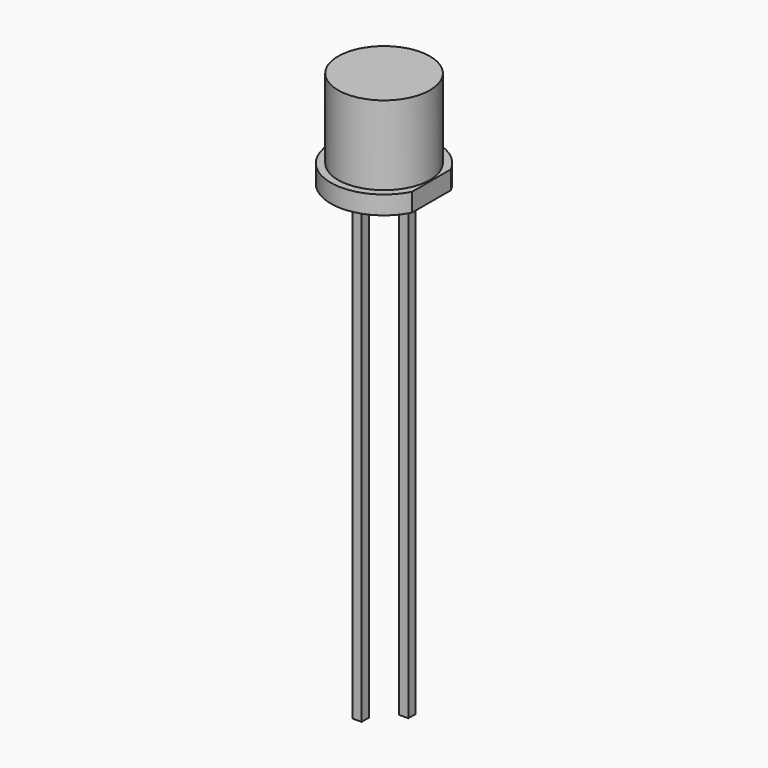
from build123d import *

# Parameters (mm, degrees)
PAD_DEPTH    = 1
SKETCH001_R  = 2.5
PAD001_DEPTH = 4.3
SKETCH002_W  = 0.5
SKETCH002_H  = 0.5
PAD002_DEPTH = 26
SKETCH003_W  = 0.5
SKETCH003_H  = 0.5
PAD003_DEPTH = 25


with BuildPart() as part:
    # Sketch → Pad (new body)
    with BuildSketch(Plane.XY):
        with BuildLine():
            ThreePointArc((2.58229, 1.319765), (-2.9, 0), (2.58229, -1.319765))
            Line((2.58229, -1.319765), (2.58229, 1.319765))
        make_face()
    extrude(amount=PAD_DEPTH)

    # Sketch001 (on Face4 of Pad) → Pad001 (join)
    with BuildSketch(Plane.XY.offset(1)):
        Circle(SKETCH001_R)
    extrude(amount=PAD001_DEPTH)

    # Sketch002 (on Face3 of Pad001) → Pad002 (join)
    with BuildSketch(Plane(origin=(0, 0, 0), x_dir=(1, 0, 0), z_dir=(0, 0, -1))):
        with Locations((-1.27, 0)):
            Rectangle(SKETCH002_W, SKETCH002_H)
    extrude(amount=PAD002_DEPTH)

    # Sketch003 (on Face3 of Pad002) → Pad003 (join)
    with BuildSketch(Plane(origin=(0, 0, 0), x_dir=(1, 0, 0), z_dir=(0, 0, -1))):
        with Locations((1.27, 0)):
            Rectangle(SKETCH003_W, SKETCH003_H)
    extrude(amount=PAD003_DEPTH)


solid = part.part
